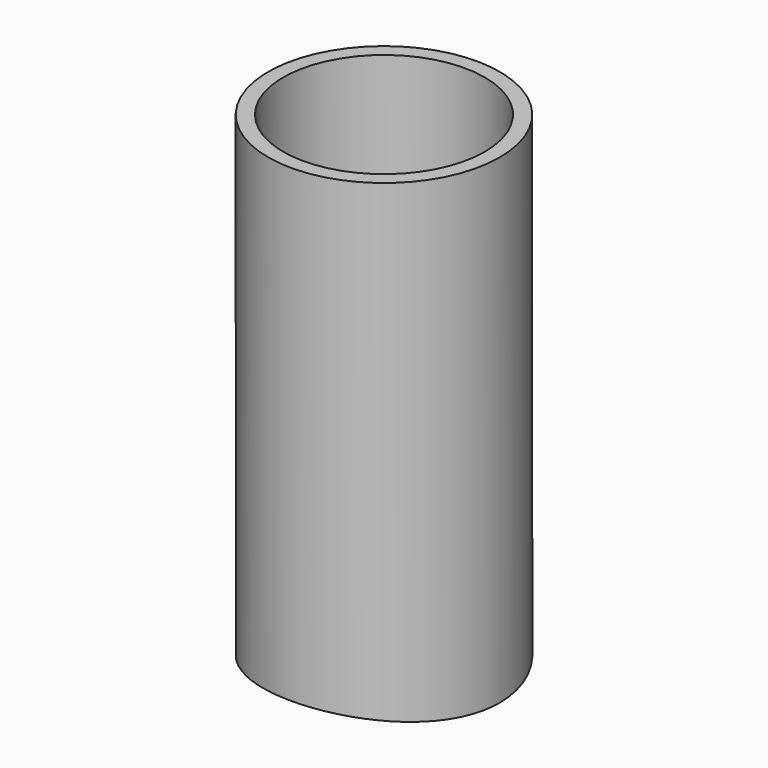
from build123d import *

# Parameters (mm, degrees)
F0_R     = 30.15
F0_R_2   = 26.24
F1_DEPTH = 125
F3_DEPTH = 50


with BuildPart() as f1:
    # F0 (on Top) → F1 (new body)
    with BuildSketch(Plane.XY):
        Circle(F0_R)
        Circle(F0_R_2, mode=Mode.SUBTRACT)
    extrude(amount=F1_DEPTH)

    # F2 (on Front) → F3 (cut, symmetric)
    with BuildSketch(Plane.XZ):
        with BuildLine():
            ThreePointArc((30.15, 0), (0, 2.83035), (-30.15, 0))
            Line((-30.15, 0), (30.15, 0))
        make_face()
    extrude(amount=F3_DEPTH, both=True, mode=Mode.SUBTRACT)


solid = f1.part
